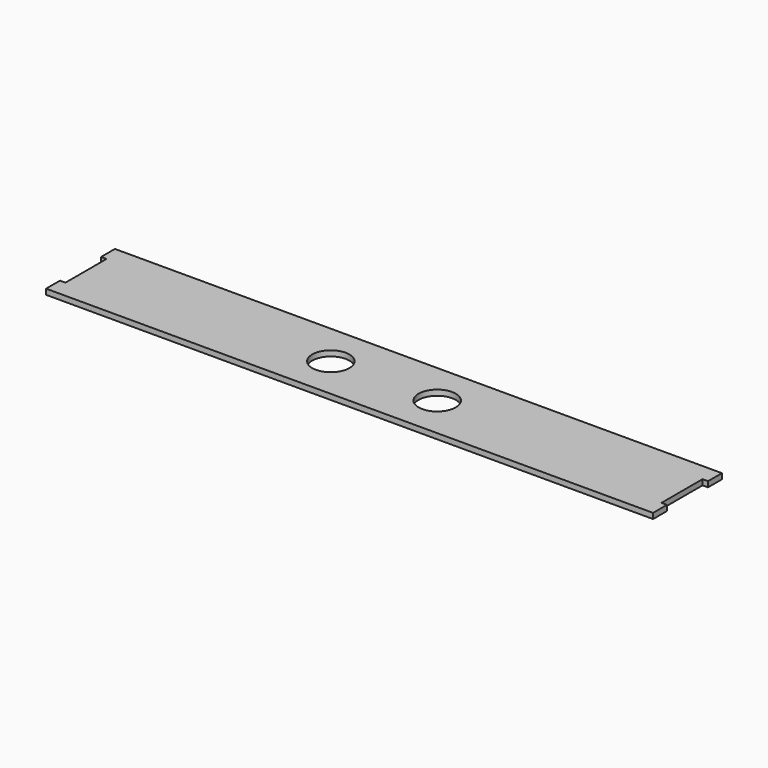
from build123d import *

# Parameters (mm, degrees)
F0_R     = 15.1
F1_DEPTH = 4.45


with BuildPart() as f1:
    # F0 (on Top) → F1 (new body)
    with BuildSketch(Plane.XY):
        Polygon((-242.45, -35), (242.45, -35), (246.9, -35), (246.9, -20.88856), (242.45, -20.88856), (242.45, 20.88856), (246.9, 20.88856), (246.9, 35), (242.45, 35), (-242.45, 35), (-246.9, 35), (-246.9, 20.88856), (-242.45, 20.88856), (-242.45, -20.88856), (-246.9, -20.88856), (-246.9, -35), align=None)
        with Locations((-43.274477, 0)):
            Circle(F0_R, mode=Mode.SUBTRACT)
        with Locations((43.274477, 0)):
            Circle(F0_R, mode=Mode.SUBTRACT)
    extrude(amount=F1_DEPTH)


solid = f1.part
